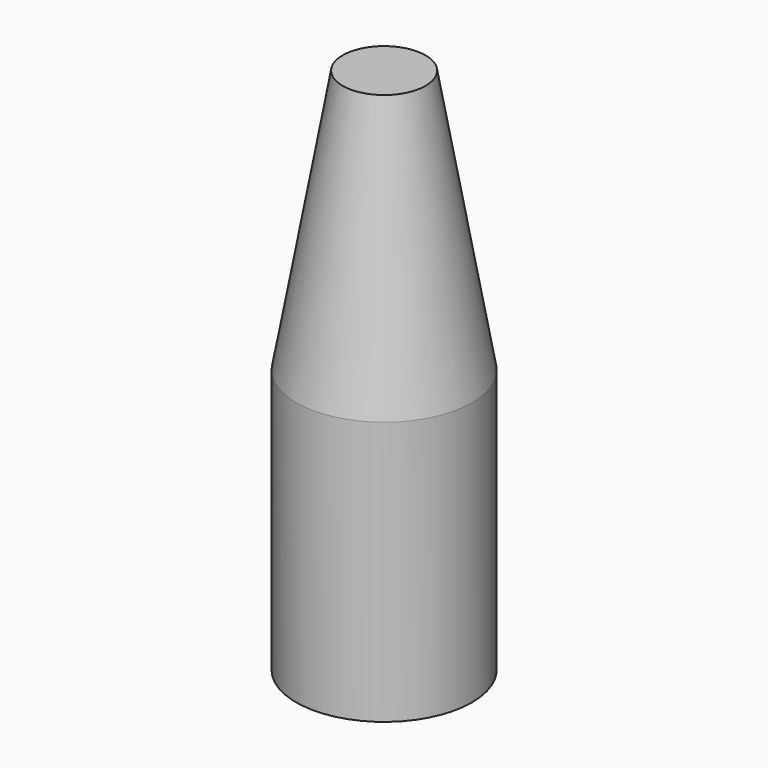
from build123d import *

# Parameters (mm, degrees)
F0_R     = 5
F1_DEPTH = 30
F2_SIZE2 = 2.644905
F2_SIZE  = 15


with BuildPart() as f1:
    # F0 (on Top) → F1 (new body)
    with BuildSketch(Plane.XY):
        Circle(F0_R)
    extrude(amount=F1_DEPTH)

    # F2
    f2_edges = [f1.edges().sort_by_distance(p)[0] for p in [
        (-5, 0, 30),
    ]]
    chamfer(f2_edges, length=F2_SIZE, length2=F2_SIZE2)


solid = f1.part
